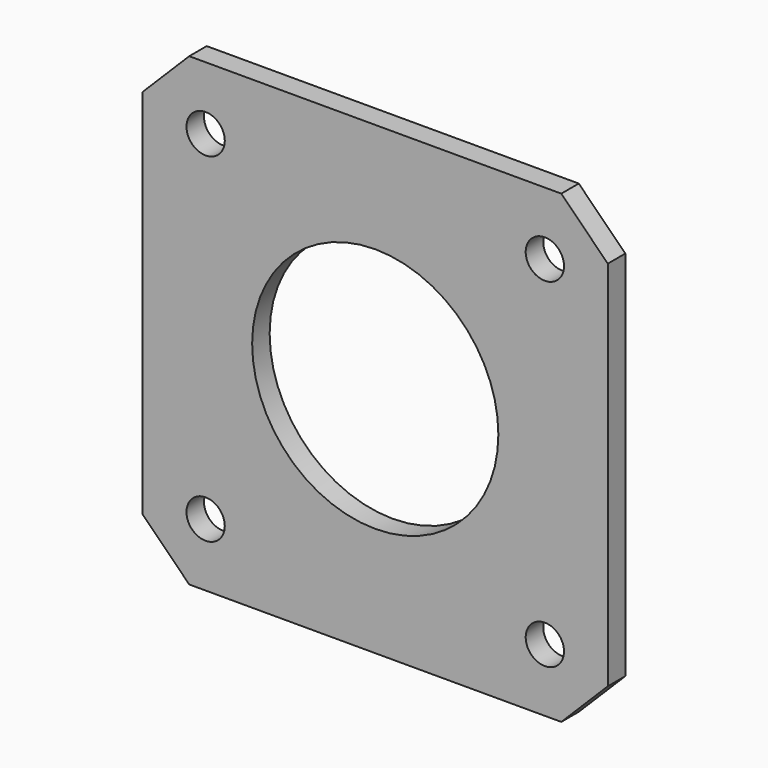
from build123d import *

# Parameters (mm, degrees)
F0_W     = 42.5
F0_H     = 42.5
F0_R     = 1.75
F0_R_2   = 11.25
F1_DEPTH = 2
F3_DEPTH = 2


with BuildPart() as f1:
    # F0 (on Front) → F1 (new body)
    with BuildSketch(Plane.XZ):
        Rectangle(F0_W, F0_H)
        with Locations((-15.5, -15.5)):
            Circle(F0_R, mode=Mode.SUBTRACT)
        with Locations((15.5, -15.5)):
            Circle(F0_R, mode=Mode.SUBTRACT)
        with Locations((-15.5, 15.5)):
            Circle(F0_R, mode=Mode.SUBTRACT)
        Circle(F0_R_2, mode=Mode.SUBTRACT)
        with Locations((15.5, 15.5)):
            Circle(F0_R, mode=Mode.SUBTRACT)
    extrude(amount=F1_DEPTH)

    # F2 (on face) → F3 (cut, through all)
    with BuildSketch(Plane.XZ.offset(2)):
        Polygon((-21.25, 21.25), (-21.25, 17), (-17, 21.25), align=None)
        Polygon((17, 21.25), (21.25, 17), (21.25, 21.25), align=None)
        Polygon((21.25, -17), (17, -21.25), (21.25, -21.25), align=None)
        Polygon((-21.25, -17), (-21.25, -21.25), (-17, -21.25), align=None)
    extrude(amount=-F3_DEPTH, mode=Mode.SUBTRACT)


solid = f1.part
